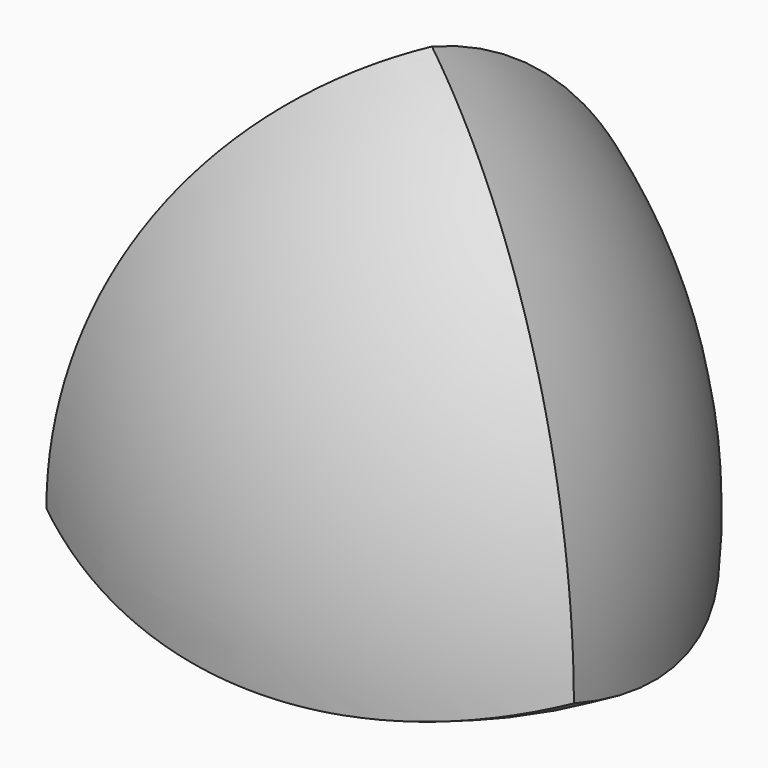
from build123d import *


with BuildPart() as f2:
    # F0 (on Top) → F2 (revolve)
    with BuildSketch(Plane.XY):
        with BuildLine():
            Line((0, -42.264973081), (0, 157.735026919))
            ThreePointArc((0, 157.735026919), (-100, 57.735026919), (0, -42.264973081))
        make_face()
    revolve(axis=Axis((0, 57.735026919, 0), (0, -1, 0)))


with BuildPart() as f3_1:
    # F3: copy of F2
    add(f2.part.moved(Location((-50, -86.6025403784, 0))))


with BuildPart() as f4_1:
    # F4: copy of F2
    add(f2.part.moved(Location((50, -86.6025403784, 0))))


with BuildPart() as f5_1:
    # F5: copy of F2
    add(f2.part.moved(Location((0, -57.735026919, 81.6496580928))))


with BuildPart() as f2_1:
    add(f2.part)

    # F6: intersect F3_1, F4_1, F5_1
    add(f3_1.part, mode=Mode.INTERSECT)
    add(f4_1.part, mode=Mode.INTERSECT)
    add(f5_1.part, mode=Mode.INTERSECT)


solid = f2_1.part
